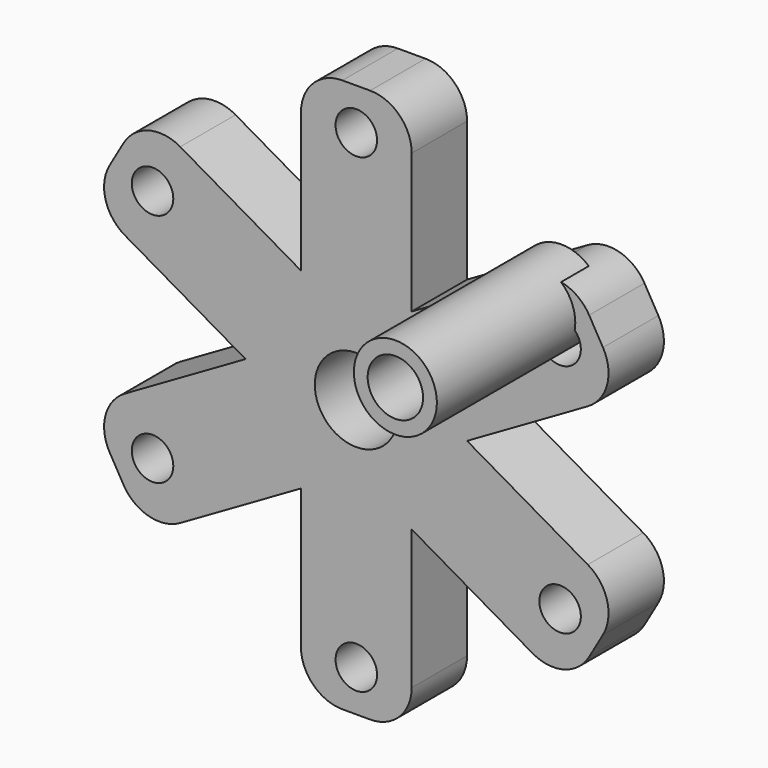
from build123d import *

# Parameters (mm, degrees)
F0_R     = 1.5
F0_R_2   = 3
F1_DEPTH = 2.5
F2_R     = 4.5
F2_R_2   = 3
F3_DEPTH = 5.5
F5_R     = 3
F5_R_2   = 2
F6_DEPTH = 15


with BuildPart() as f1:
    # F0 (on Front) → F1 (new body, symmetric)
    with BuildSketch(Plane.XZ):
        with BuildLine():
            Line((4, 6.928203), (4, 17))
            ThreePointArc((4, 17), (3.12132, 19.12132), (1, 20))
            Line((1, 20), (-1, 20))
            ThreePointArc((-1, 20), (-3.12132, 19.12132), (-4, 17))
            Line((-4, 17), (-4, 6.928203))
            Line((-4, 6.928203), (-12.722432, 11.964102))
            ThreePointArc((-12.722432, 11.964102), (-14.998889, 12.263803), (-16.820508, 10.866025))
            Line((-16.820508, 10.866025), (-17.820508, 9.133975))
            ThreePointArc((-17.820508, 9.133975), (-18.120209, 6.857517), (-16.722432, 5.035898))
            Line((-16.722432, 5.035898), (-8, 0))
            Line((-8, 0), (-16.722432, -5.035898))
            ThreePointArc((-16.722432, -5.035898), (-18.120209, -6.857517), (-17.820508, -9.133975))
            Line((-17.820508, -9.133975), (-16.820508, -10.866025))
            ThreePointArc((-16.820508, -10.866025), (-14.998889, -12.263803), (-12.722432, -11.964102))
            Line((-12.722432, -11.964102), (-4, -6.928203))
            Line((-4, -6.928203), (-4, -17))
            ThreePointArc((-4, -17), (-3.12132, -19.12132), (-1, -20))
            Line((-1, -20), (1, -20))
            ThreePointArc((1, -20), (3.12132, -19.12132), (4, -17))
            Line((4, -17), (4, -6.928203))
            Line((4, -6.928203), (12.722432, -11.964102))
            ThreePointArc((12.722432, -11.964102), (14.998889, -12.263803), (16.820508, -10.866025))
            Line((16.820508, -10.866025), (17.820508, -9.133975))
            ThreePointArc((17.820508, -9.133975), (18.120209, -6.857517), (16.722432, -5.035898))
            Line((16.722432, -5.035898), (8, 0))
            Line((8, 0), (16.722432, 5.035898))
            ThreePointArc((16.722432, 5.035898), (18.120209, 6.857517), (17.820508, 9.133975))
            Line((17.820508, 9.133975), (16.820508, 10.866025))
            ThreePointArc((16.820508, 10.866025), (14.998889, 12.263803), (12.722432, 11.964102))
            Line((12.722432, 11.964102), (4, 6.928203))
        make_face()
        with Locations((-14.722432, -8.5)):
            Circle(F0_R, mode=Mode.SUBTRACT)
        with Locations((0, -17)):
            Circle(F0_R, mode=Mode.SUBTRACT)
        with Locations((14.722432, -8.5)):
            Circle(F0_R, mode=Mode.SUBTRACT)
        with Locations((-14.722432, 8.5)):
            Circle(F0_R, mode=Mode.SUBTRACT)
        Circle(F0_R_2, mode=Mode.SUBTRACT)
        with Locations((14.722432, 8.5)):
            Circle(F0_R, mode=Mode.SUBTRACT)
        with Locations((0, 17)):
            Circle(F0_R, mode=Mode.SUBTRACT)
    extrude(amount=F1_DEPTH, both=True)


with BuildPart() as f3:
    # F2 (on Front) → F3 (new body)
    with BuildSketch(Plane.XZ):
        with Locations((-21.388192, 23.641713)):
            Circle(F2_R)
        with Locations((-21.388192, 23.641713)):
            Circle(F2_R_2, mode=Mode.SUBTRACT)
    extrude(amount=F3_DEPTH)


with BuildPart() as f6:
    # F5 (on Front) → F6 (new body)
    with BuildSketch(Plane.XZ):
        with Locations((12.820849, 10.050187)):
            Circle(F5_R)
        with Locations((12.820849, 10.050187)):
            Circle(F5_R_2, mode=Mode.SUBTRACT)
    extrude(amount=F6_DEPTH)


solid = Compound([f1.part, f6.part])
